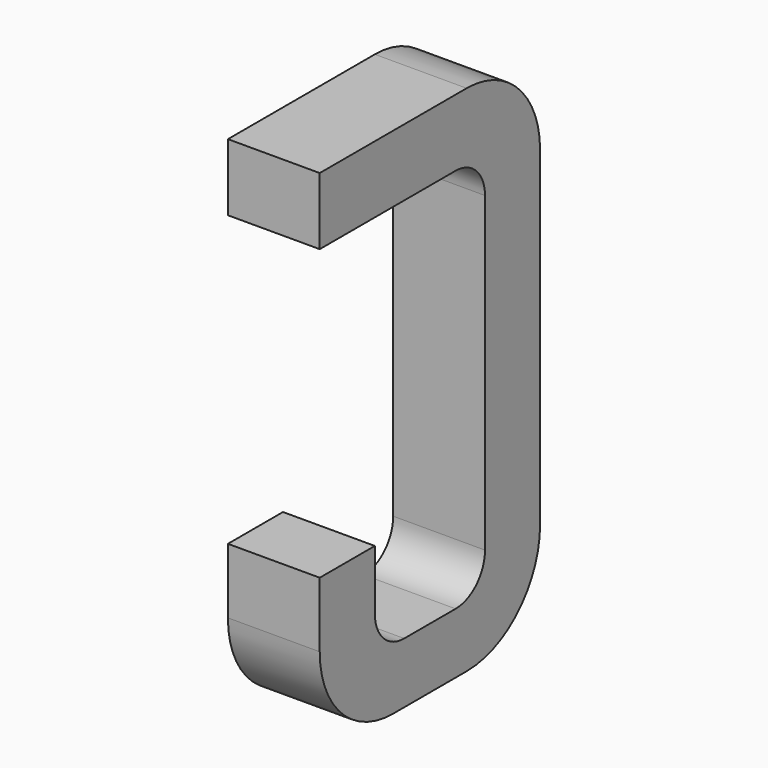
from build123d import *

# Parameters (mm, degrees)
BOX165_W     = 0.5
BOX165_H     = 1.5
BOX165_DEPTH = 2.795
FILLET372_R  = 0.5
FILLET374_R  = 0.5
FILLET367_R  = 0.5
BOX164_W     = 0.75
BOX164_H     = 2.1
BOX164_DEPTH = 1
FILLET368_R  = 0.2
FILLET383_R  = 0.2
FILLET380_R  = 0.2
FILLET381_R  = 0.2
BOX174_W     = 1
BOX174_H     = 1.575
BOX174_DEPTH = 3


with BuildPart() as part:
    # Box165 → Box165 (join)
    with BuildSketch(Plane(origin=(-0.25, 11.125, 0), x_dir=(1, 0, 0), z_dir=(0, 0, 1))):
        with Locations((0.25, 0.75)):
            Rectangle(BOX165_W, BOX165_H)
    extrude(amount=BOX165_DEPTH)

    # Fillet372
    fillet372_edges = [part.edges().sort_by_distance(p)[0] for p in [
        (0, 12.625, 0),
    ]]
    fillet(fillet372_edges, radius=FILLET372_R)

    # Fillet374
    fillet374_edges = [part.edges().sort_by_distance(p)[0] for p in [
        (0, 12.625, 2.795),
    ]]
    fillet(fillet374_edges, radius=FILLET374_R)

    # Fillet367
    fillet367_edges = [part.edges().sort_by_distance(p)[0] for p in [
        (0, 11.125, 0),
    ]]
    fillet(fillet367_edges, radius=FILLET367_R)

    # Box164 → Box164 (cut)
    with BuildSketch(Plane(origin=(-0.5, 11.5, 0.33), x_dir=(0, 1, 0), z_dir=(1, 0, 0))):
        with Locations((0.375, 1.05)):
            Rectangle(BOX164_W, BOX164_H)
    extrude(amount=BOX164_DEPTH, mode=Mode.SUBTRACT)

    # Fillet368
    fillet368_edges = [part.edges().sort_by_distance(p)[0] for p in [
        (0, 11.5, 0.33),
    ]]
    fillet(fillet368_edges, radius=FILLET368_R)

    # Fillet383
    fillet383_edges = [part.edges().sort_by_distance(p)[0] for p in [
        (0, 12.25, 0.33),
    ]]
    fillet(fillet383_edges, radius=FILLET383_R)

    # Fillet380
    fillet380_edges = [part.edges().sort_by_distance(p)[0] for p in [
        (0, 11.5, 2.43),
    ]]
    fillet(fillet380_edges, radius=FILLET380_R)

    # Fillet381
    fillet381_edges = [part.edges().sort_by_distance(p)[0] for p in [
        (0, 12.25, 2.43),
    ]]
    fillet(fillet381_edges, radius=FILLET381_R)

    # Box174 → Box174 (cut)
    with BuildSketch(Plane(origin=(-1, 11, 0.855), x_dir=(0, 1, 0), z_dir=(1, 0, 0))):
        with Locations((0.5, 0.7875)):
            Rectangle(BOX174_W, BOX174_H)
    extrude(amount=BOX174_DEPTH, mode=Mode.SUBTRACT)


with BuildPart() as part_1:
    # Body055 placement: moved
    add(part.part.moved(Location((6.35, 0, 0))))


solid = part_1.part
